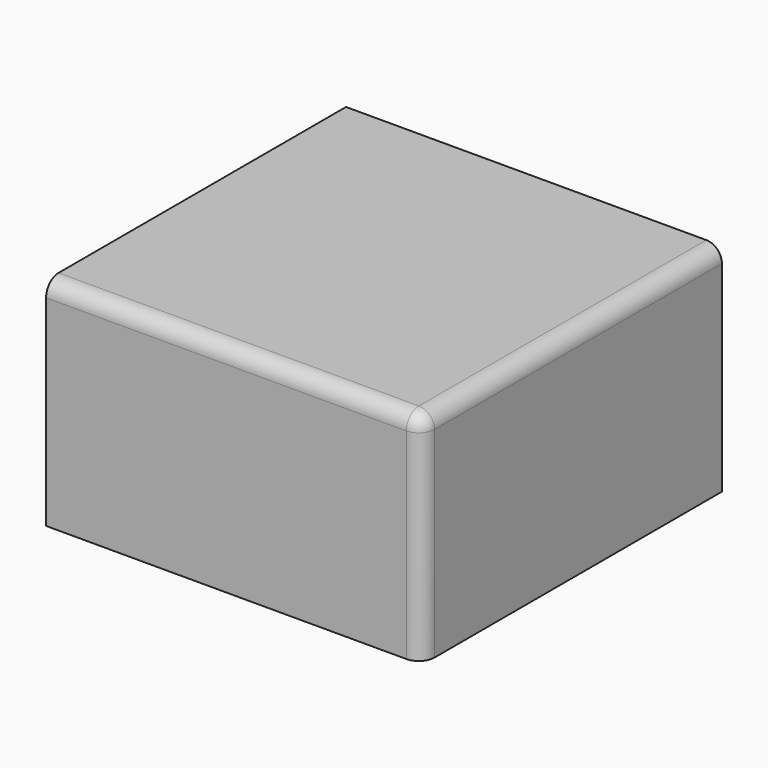
from build123d import *

# Parameters (mm, degrees)
F0_W     = 120.528899
F0_H     = 120.2101
F1_DEPTH = 69.4
F2_R     = 5
F3_T     = -2.5


with BuildPart() as f1:
    # F0 (on Top) → F1 (new body)
    with BuildSketch(Plane.XY):
        with Locations((8.009833, -5.004426)):
            Rectangle(F0_W, F0_H)
    extrude(amount=F1_DEPTH)

    # F2
    f2_edges = [f1.edges().sort_by_distance(p)[0] for p in [
        (8.009832, -65.109476, 69.4),
        (68.274282, -5.004426, 69.4),
        (68.274282, -65.109476, 34.7),
    ]]
    fillet(f2_edges, radius=F2_R)

    # F3
    f3_openings = [f1.faces().sort_by_distance(p)[0] for p in [
        (7.987923, -4.982576, 0),
    ]]
    offset(amount=F3_T, openings=f3_openings)


solid = f1.part
